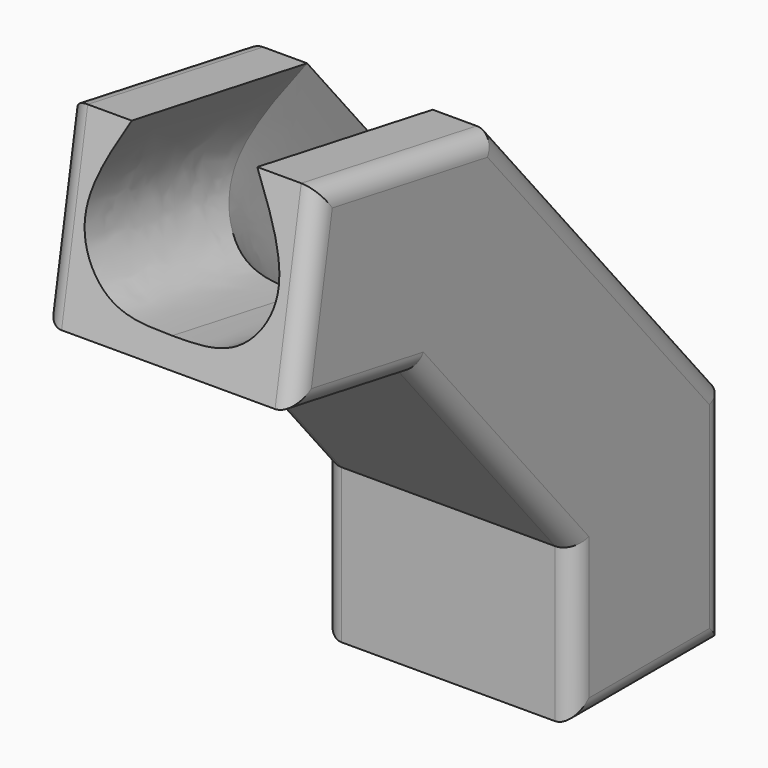
from build123d import *

# Parameters (mm, degrees)
F3_R = 3


with BuildPart() as f2:
    # F2: sweep along a path in F1
    with BuildLine(Plane.YZ) as f2_path:
        Line((0, 0), (0, 30))
        Line((0, 30), (-38.5672565812, 75.9626665871))
        Line((-38.5672565812, 75.9626665871), (-68.1114891716, 81.1721119171))
    # F0 (on Top) → F2 (sweep)
    with BuildSketch(Plane.XY):
        with BuildLine():
            Line((-10, 15), (-20, 15))
            Line((-20, 15), (-20, -15))
            Line((-20, -15), (20, -15))
            Line((20, -15), (20, 15))
            Line((20, 15), (10, 15))
            add(Edge.make_bspline(
                [(10, 15), (12.8331761755, 9.8207678803), (17.947046752, 0.4722766093), (10.6957463234, -10.4813852615), (3.5543120142, -10.4875882246), (0, -10.4906754568)],
                knots=[0, 0, 0, 0, 0.3842269917, 0.6935280356, 1, 1, 1, 1], degree=3))
            add(Edge.make_bspline(
                [(-10, 15), (-12.8331761755, 9.8207678803), (-17.947046752, 0.4722766093), (-10.6957463234, -10.4813852615), (-3.5543120142, -10.4875882246), (0, -10.4906754568)],
                knots=[0, 0, 0, 0, 0.3842269917, 0.6935280356, 1, 1, 1, 1], degree=3))
        make_face()
    sweep(path=f2_path.line, transition=Transition.RIGHT)

    # F3
    f3_edges = [f2.edges().sort_by_distance(p)[0] for p in [
        (-20, 15, 17.729777),
        (-20, -7.792962, 62.623147),
        (-20, -48.046345, 92.865485),
        (-20, -68.111489, 81.172112),
        (-20, -58.632401, 64.269294),
        (-20, -30.774295, 43.339519),
        (-20, -15, 12.270223),
        (-20, 0, 0),
        (20, -48.046345, 92.865485),
        (20, -7.792962, 62.623147),
        (20, 15, 17.729777),
        (20, 0, 0),
        (20, -15, 12.270223),
        (20, -30.774295, 43.339519),
        (20, -58.632401, 64.269294),
        (20, -68.111489, 81.172112),
    ]]
    fillet(f3_edges, radius=F3_R)


solid = f2.part
